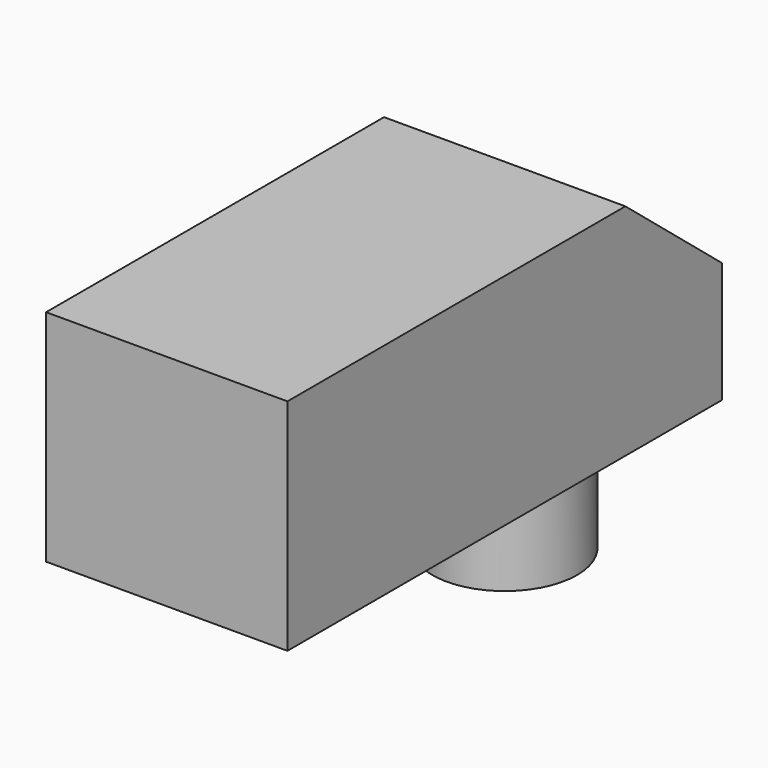
from build123d import *

# Parameters (mm, degrees)
F1_DEPTH = 20
F2_R     = 6
F3_DEPTH = 10


with BuildPart() as f1:
    # F0 (on Right) → F1 (new body)
    with BuildSketch(Plane.YZ):
        Polygon((12.5, -14.775001), (-22.5, -14.775001), (-22.5, -32.975001), (22.5, -32.975001), (22.5, -22.975001), align=None)
    extrude(amount=-F1_DEPTH)

    # F2 (on face) → F3 (join)
    with BuildSketch(Plane(origin=(0, 0, -32.975001), x_dir=(1, 0, 0), z_dir=(0, 0, -1))):
        with Locations((-10, -12.5)):
            Circle(F2_R)
    extrude(amount=F3_DEPTH)


solid = f1.part
